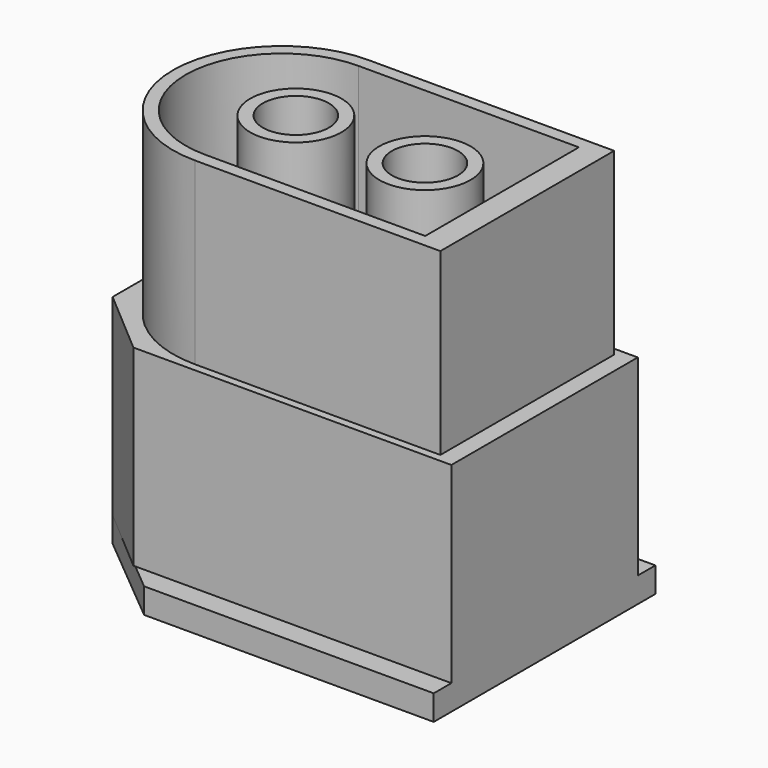
from build123d import *

# Parameters (mm, degrees)
PAD_DEPTH           = 0.8
PAD001_DEPTH        = 6.1
PAD002_DEPTH        = 5.7
POCKET_DEPTH        = 5.7
PAD003_PROFILE_R    = 1.45
PAD003_DEPTH        = 5.7
POCKET001_PROFILE_R = 1.05
POCKET001_DEPTH     = 12.6
POCKET002_PROFILE_W = 2.5
POCKET002_PROFILE_H = 2.5
POCKET002_DEPTH     = 6.1


with BuildPart() as part:
    # Sketch → Pad (new body)
    with BuildSketch(Plane.XY):
        Polygon((-6.1, 4.4), (6.1, 4.4), (6.1, -4.4), (-3.1, -4.4), (-6.1, -1.9), align=None)
    extrude(amount=PAD_DEPTH)

    # Pad001_Profile → Pad001 (join)
    with BuildSketch(Plane(origin=(0.115466, 0.066286, 0.8), x_dir=(0, 1, 0), z_dir=(0, 0, 1))):
        Polygon((3.633714, -5.984534), (3.633714, 6.215466), (-1.966286, 6.215466), (-3.766286, 4.115466), (-3.766286, -5.984534), align=None)
    extrude(amount=PAD001_DEPTH)

    # Pad002_Profile → Pad002 (join)
    with BuildSketch(Plane(origin=(0.266979, 0, 6.9), x_dir=(0, 1, 0), z_dir=(0, 0, 1))):
        with BuildLine():
            Line((3.45, -5.283021), (3.45, 2.516979))
            ThreePointArc((3.45, 2.516979), (0, 5.966979), (-3.45, 2.516979))
            Line((-3.45, 2.516979), (-3.45, -5.283021))
            Line((-3.45, -5.283021), (3.45, -5.283021))
        make_face()
    extrude(amount=PAD002_DEPTH)

    # Pocket_Profile → Pocket (cut)
    with BuildSketch(Plane(origin=(0.027606, 0, 12.6), x_dir=(0, 1, 0), z_dir=(0, 0, 1))):
        with BuildLine():
            Line((3.05, -4.722394), (3.05, 2.277606))
            ThreePointArc((3.05, 2.277606), (0, 5.327606), (-3.05, 2.277606))
            Line((-3.05, 2.277606), (-3.05, -4.722394))
            Line((-3.05, -4.722394), (3.05, -4.722394))
        make_face()
    extrude(amount=-POCKET_DEPTH, mode=Mode.SUBTRACT)

    # Pad003_Profile → Pad003 (join)
    with BuildSketch(Plane(origin=(2.3, 0, 6.9), x_dir=(0, 1, 0), z_dir=(0, 0, 1))):
        Circle(PAD003_PROFILE_R)
        with Locations((0, 4.1)):
            Circle(PAD003_PROFILE_R)
    extrude(amount=PAD003_DEPTH)

    # Pocket001_Profile → Pocket001 (cut)
    with BuildSketch(Plane(origin=(-1.8, 0, 12.6), x_dir=(0, 1, 0), z_dir=(0, 0, 1))):
        Circle(POCKET001_PROFILE_R)
        with Locations((0, -4.1)):
            Circle(POCKET001_PROFILE_R)
    extrude(amount=-POCKET001_DEPTH, mode=Mode.SUBTRACT)

    # Pocket002_Profile → Pocket002 (cut)
    with BuildSketch(Plane(origin=(2.3, 0, 6.1), x_dir=(0, 1, 0), z_dir=(0, 0, 1))):
        Rectangle(POCKET002_PROFILE_W, POCKET002_PROFILE_H)
        with Locations((0, 4.1)):
            Rectangle(POCKET002_PROFILE_W, POCKET002_PROFILE_H)
    extrude(amount=-POCKET002_DEPTH, mode=Mode.SUBTRACT)


solid = part.part
